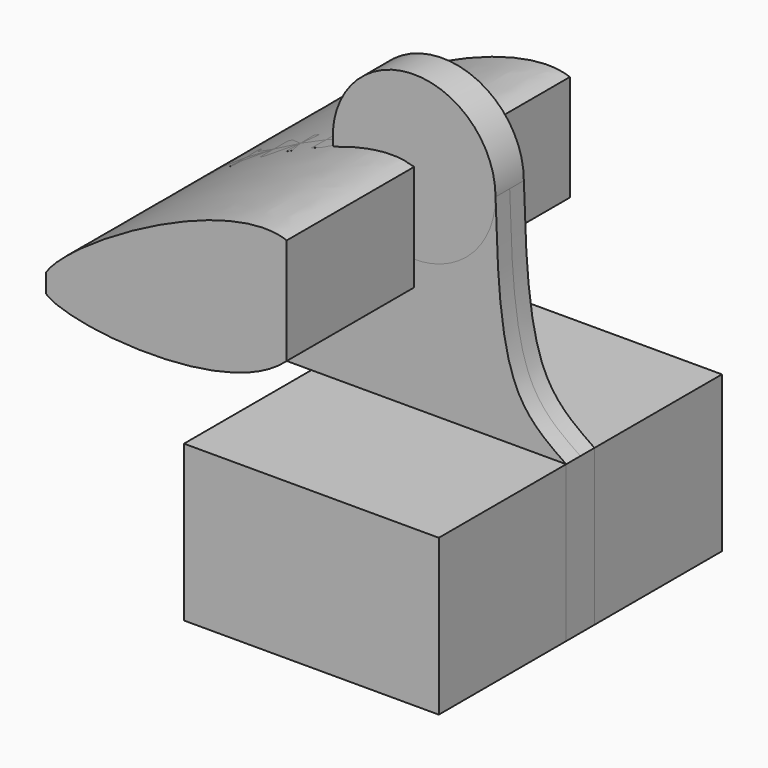
from build123d import *

# Parameters (mm, degrees)
F1_DEPTH = 63.5
F2_DEPTH = 6.35


with BuildPart() as f1:
    # F0 (on Front) → F1 (new body, symmetric)
    with BuildSketch(Plane.XZ):
        with BuildLine():
            add(Edge.make_bspline(
                [(-62.8191306663, 25.4825032473), (-53.3984235242, 39.3724645125), (2.3272637423, 71.4595154464), (23.5408693337, 63.5825032473)],
                knots=[0, 0, 0, 0, 0.3446371565, 0.3446371565, 0.3446371565, 0.3446371565], degree=3))
            Line((-62.8191306663, 25.4825032473), (23.5408693337, 25.4825032473))
            Line((23.5408693337, 25.4825032473), (23.5408693337, 63.5825032473))
        make_face()
        with BuildLine():
            Line((23.5408693337, 25.4825032473), (-62.8191306663, 25.4825032473))
            Line((-62.8191306663, 25.4825032473), (-62.8191306663, 18.6229422223))
            add(Edge.make_bspline(
                [(23.5408693337, 25.4825032473), (4.4069734926, 7.9127626337), (-47.6861862114, 10.4262042613), (-61.7764711631, 17.683755635), (-62.8191306663, 18.6229422223)],
                knots=[0.5635943956, 0.5635943956, 0.5635943956, 0.5635943956, 0.8852532886, 0.9257726642, 0.9257726642, 0.9257726642, 0.9257726642], degree=3))
        make_face()
    extrude(amount=F1_DEPTH, both=True)


with BuildPart() as f1b:
    # F0 (on Front) → F1, piece 2 (new body, symmetric)
    with BuildSketch(Plane.XZ):
        Polygon((52.7508693337, -12.6174967527), (23.5408693337, -12.6174967527), (-13.328413029, -12.6174967527), (-13.328413029, -68.4974967527), (78.111586971, -68.4974967527), (78.111586971, -12.6174967527), align=None)
    extrude(amount=F1_DEPTH, both=True)


with BuildPart() as f2:
    # F0 (on Front) → F2 (new body, symmetric)
    with BuildSketch(Plane.XZ):
        with BuildLine():
            add(Edge.make_bspline(
                [(-62.8191306663, 25.4825032473), (-53.3984235242, 39.3724645125), (2.3272637423, 71.4595154464), (23.5408693337, 63.5825032473)],
                knots=[0, 0, 0, 0, 0.3446371565, 0.3446371565, 0.3446371565, 0.3446371565], degree=3))
            Line((-62.8191306663, 25.4825032473), (23.5408693337, 25.4825032473))
            Line((23.5408693337, 25.4825032473), (23.5408693337, 63.5825032473))
        make_face()
        with BuildLine():
            Line((23.5408693337, 25.4825032473), (-62.8191306663, 25.4825032473))
            Line((-62.8191306663, 25.4825032473), (-62.8191306663, 18.6229422223))
            add(Edge.make_bspline(
                [(23.5408693337, 25.4825032473), (4.4069734926, 7.9127626337), (-47.6861862114, 10.4262042613), (-61.7764711631, 17.683755635), (-62.8191306663, 18.6229422223)],
                knots=[0.5635943956, 0.5635943956, 0.5635943956, 0.5635943956, 0.8852532886, 0.9257726642, 0.9257726642, 0.9257726642, 0.9257726642], degree=3))
        make_face()
        with BuildLine():
            Line((-62.8191306663, 18.6229422223), (-62.8191306663, 25.4825032473))
            add(Edge.make_bspline(
                [(-62.8191306663, 18.6229422223), (-64.7291758198, 20.3434356182), (-64.8481457602, 22.4909081753), (-62.8191306663, 25.4825032473)],
                knots=[0.9257726642, 0.9257726642, 0.9257726642, 0.9257726642, 1, 1, 1, 1], degree=3))
        make_face()
        with BuildLine():
            add(Edge.make_bspline(
                [(23.5408693337, 63.5825032473), (37.0184425553, 58.578025898), (36.5655520002, 37.44244585), (23.5408693337, 25.4825032473)],
                knots=[0.3446371565, 0.3446371565, 0.3446371565, 0.3446371565, 0.5635943956, 0.5635943956, 0.5635943956, 0.5635943956], degree=3))
            Line((23.5408693337, 25.4825032473), (23.5408693337, -12.6174967527))
            Line((23.5408693337, -12.6174967527), (52.7508693337, -12.6174967527))
            Line((52.7508693337, -12.6174967527), (52.7508693337, 63.5825032473))
            Line((52.7508693337, 63.5825032473), (23.5408693337, 63.5825032473))
        make_face()
        with BuildLine():
            Line((23.5408693337, 63.5825032473), (23.5408693337, 25.4825032473))
            add(Edge.make_bspline(
                [(23.5408693337, 63.5825032473), (37.0184425553, 58.578025898), (36.5655520002, 37.44244585), (23.5408693337, 25.4825032473)],
                knots=[0.3446371565, 0.3446371565, 0.3446371565, 0.3446371565, 0.5635943956, 0.5635943956, 0.5635943956, 0.5635943956], degree=3))
        make_face()
        with BuildLine():
            Line((23.5408693337, -12.6174967527), (23.5408693337, 25.4825032473))
            add(Edge.make_bspline(
                [(23.5408693337, 25.4825032473), (4.4069734926, 7.9127626337), (-47.6861862114, 10.4262042613), (-61.7764711631, 17.683755635), (-62.8191306663, 18.6229422223)],
                knots=[0.5635943956, 0.5635943956, 0.5635943956, 0.5635943956, 0.8852532886, 0.9257726642, 0.9257726642, 0.9257726642, 0.9257726642], degree=3))
            Line((-62.8191306663, 18.6229422223), (-62.8191306663, -12.6174967527))
            Line((-62.8191306663, -12.6174967527), (-13.328413029, -12.6174967527))
            Line((-13.328413029, -12.6174967527), (23.5408693337, -12.6174967527))
        make_face()
        Polygon((52.7508693337, -12.6174967527), (23.5408693337, -12.6174967527), (-13.328413029, -12.6174967527), (-13.328413029, -68.4974967527), (78.111586971, -68.4974967527), (78.111586971, -12.6174967527), align=None)
        with BuildLine():
            add(Edge.make_bspline(
                [(52.7508693337, 63.5825032473), (53.4527266053, 40.8705029879), (54.6090808037, 3.4510476137), (71.4804236947, -8.0838040244), (78.111586971, -12.6174967527)],
                knots=[0, 0, 0, 0, 0.6069569969, 1, 1, 1, 1], degree=3))
            Line((52.7508693337, 63.5825032473), (52.7508693337, -12.6174967527))
            Line((52.7508693337, -12.6174967527), (78.111586971, -12.6174967527))
        make_face()
    extrude(amount=F2_DEPTH, both=True)


with BuildPart() as f3:
    # F2_face (on face) → F3 (revolve)
    with BuildSketch(Plane(origin=(38.1458693337, 0, 63.5825032473), x_dir=(1, 0, 0), z_dir=(0, 0, 1))):
        Polygon((14.605, 0), (14.605, 6.35), (-14.605, 6.35), (-14.605, 0), (-14.605, -6.35), (14.605, -6.35), align=None)
    revolve(axis=Axis((23.5408693337, 0, 63.5825032473), (0, 1, 0)))


solid = Compound([f1.part, f1b.part, f2.part, f3.part])
